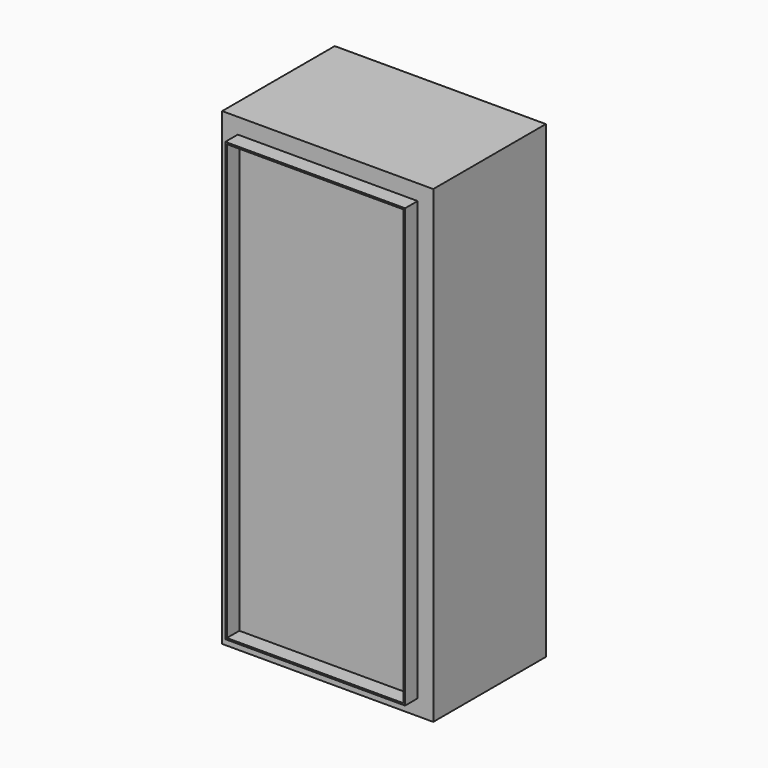
from build123d import *

# Parameters (mm, degrees)
F0_W     = 270
F0_H     = 600
F1_DEPTH = 180
F2_W     = 230
F2_H     = 560
F2_W_2   = 226
F2_H_2   = 556
F3_DEPTH = 20


with BuildPart() as f1:
    # F0 (on Front) → F1 (new body)
    with BuildSketch(Plane.XZ):
        with Locations((135, 300)):
            Rectangle(F0_W, F0_H)
    extrude(amount=F1_DEPTH)

    # F2 (on face) → F3 (join)
    with BuildSketch(Plane.XZ.offset(180)):
        with Locations((135, 300)):
            Rectangle(F2_W, F2_H)
        with Locations((135, 300)):
            Rectangle(F2_W_2, F2_H_2, mode=Mode.SUBTRACT)
    extrude(amount=F3_DEPTH)


solid = f1.part
